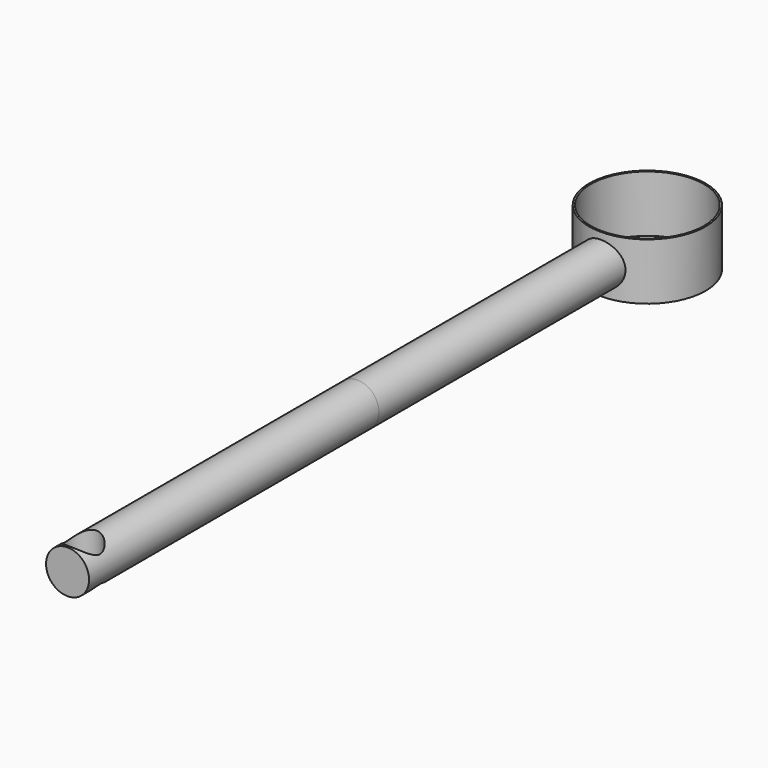
from build123d import *

# Parameters (mm, degrees)
F0_R     = 9.5
F1_DEPTH = 160
F2_W     = 37.5
F2_H     = 20
F3_DEPTH = 30
F4_R     = 7.5
F5_DEPTH = 1000
F7_R     = 25.75
F7_R_2   = 25
F8_DEPTH = 12.5
F9_DEPTH = 500


with BuildPart() as f1:
    # F0 (on Front) → F1 (new body)
    with BuildSketch(Plane.XZ):
        Circle(F0_R)
    extrude(amount=-F1_DEPTH)

    # F2 (on Front) → F3 (cut)
    with BuildSketch(Plane.XZ):
        Rectangle(F2_W, F2_H)
    extrude(amount=F3_DEPTH, mode=Mode.SUBTRACT)

    # F4 (on Top) → F5 (cut, symmetric)
    with BuildSketch(Plane.XY):
        with Locations((0, 8.5)):
            Circle(F4_R)
    extrude(amount=F5_DEPTH, both=True, mode=Mode.SUBTRACT)

    # F6: F1 across face


with BuildPart() as f1_1:
    add(f1.part)
    add(f1.part.mirror(Plane(origin=(0, 160, 0), x_dir=(1, 0, 0), z_dir=(0, 1, 0))))

    # F7 (on Top) → F8 (join, symmetric)
    with BuildSketch(Plane.XY):
        with Locations((0, 320)):
            Circle(F7_R)
        with Locations((0, 320)):
            Circle(F7_R_2, mode=Mode.SUBTRACT)
    extrude(amount=F8_DEPTH, both=True)

    # F7 (on Top) → F9 (cut, symmetric)
    with BuildSketch(Plane.XY):
        with Locations((0, 320)):
            Circle(F7_R_2)
    extrude(amount=F9_DEPTH, both=True, mode=Mode.SUBTRACT)


solid = f1_1.part
